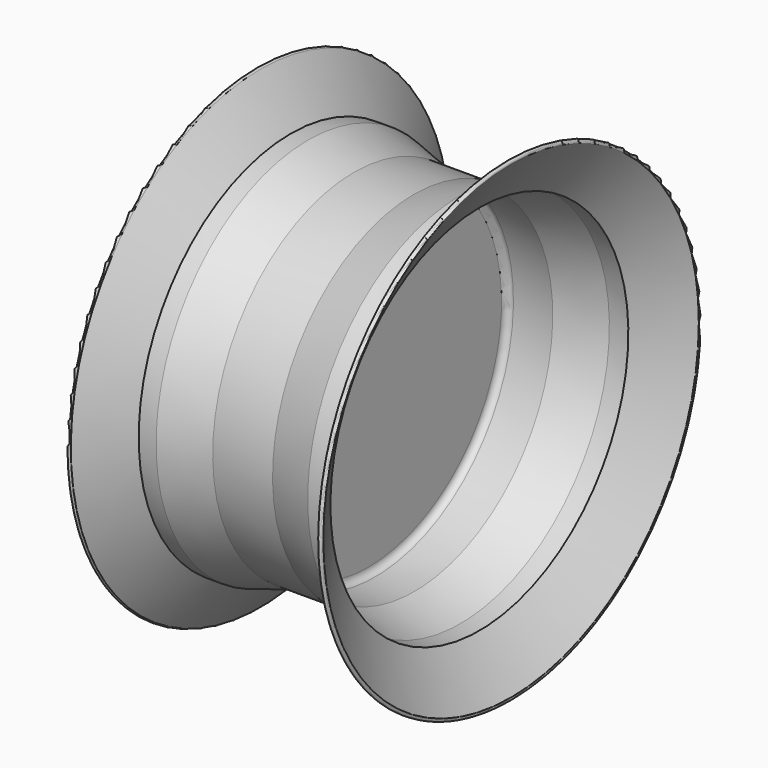
from build123d import *


with BuildPart() as f1:
    # F0 (on Front) → F1 (revolve)
    with BuildSketch(Plane.XZ):
        with BuildLine():
            Line((70.466707, -34), (57.309796, -34))
            Line((57.309796, -34), (22.622415, -44.128715))
            Line((22.622415, -44.128715), (0, -44.128715))
            Line((0, -44.128715), (-22.622415, -44.128715))
            Line((-22.622415, -44.128715), (-57.309796, -34))
            Line((-57.309796, -34), (-70.466707, -34))
            Line((-70.466707, -34), (-93.538238, 1.30643))
            ThreePointArc((-93.538238, 1.30643), (-95.614451, 1.741565), (-96.049585, -0.334648))
            Line((-96.049585, -0.334648), (-72.090045, -37))
            Line((-72.090045, -37), (-57.738838, -37))
            Line((-57.738838, -37), (-23.051457, -47.128715))
            Line((-23.051457, -47.128715), (-19.661824, -47.128715))
            ThreePointArc((-19.661824, -47.128715), (-16.12629, -48.593181), (-14.661824, -52.128715))
            Line((-14.661824, -52.128715), (-14.661824, -177.8))
            Line((-14.661824, -177.8), (-11.661824, -177.8))
            Line((-11.661824, -177.8), (-11.661824, -52.128715))
            ThreePointArc((-11.661824, -52.128715), (-10.197358, -48.593181), (-6.661824, -47.128715))
            Line((-6.661824, -47.128715), (0, -47.128715))
            Line((0, -47.128715), (23.051457, -47.128715))
            Line((23.051457, -47.128715), (57.738838, -37))
            Line((57.738838, -37), (72.090045, -37))
            Line((72.090045, -37), (96.049585, -0.334648))
            ThreePointArc((96.049585, -0.334648), (95.614451, 1.741565), (93.538238, 1.30643))
            Line((93.538238, 1.30643), (70.466707, -34))
        make_face()
    revolve(axis=Axis((-59.103161, 0, -177.8), (-1, 0, 0)))


solid = f1.part
